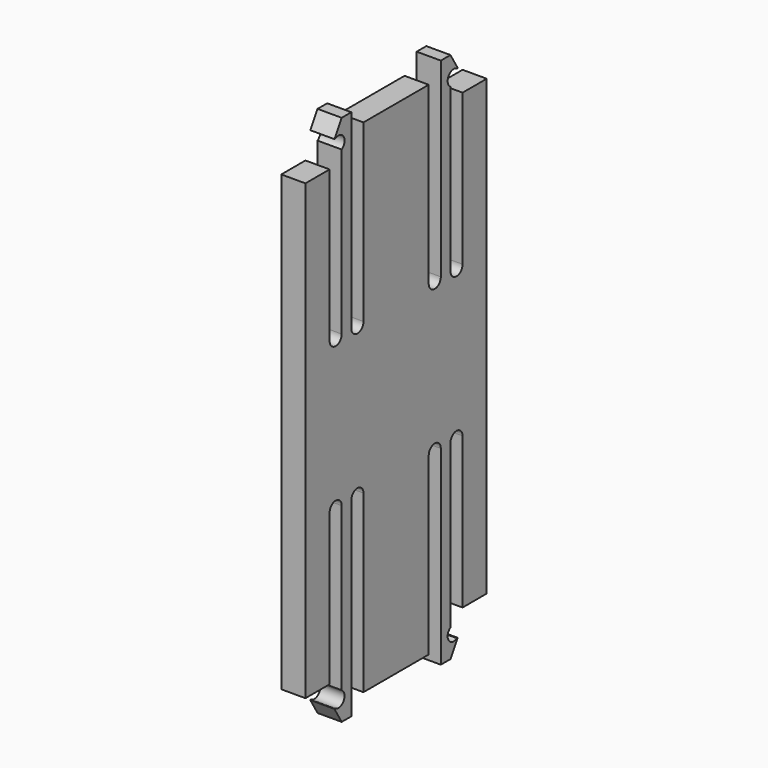
from build123d import *

# Parameters (mm, degrees)
F3_W     = 15
F3_H     = 30
F4_DEPTH = 1.6
F5_W     = 1
F5_H     = 10
F0_DEPTH = 25
F6_W     = 2.7
F6_H     = 1.6
F1_DEPTH = 1.6
F2_R     = 0.5
F7_DEPTH = 25


with BuildPart() as f4:
    # F3 (on Right) → F4 (new body)
    with BuildSketch(Plane.YZ):
        with Locations((7.5, 15)):
            Rectangle(F3_W, F3_H)
    extrude(amount=F4_DEPTH)

    # F5 (on face) → F0 (cut)
    with BuildSketch(Plane.YZ.offset(1.6)):
        with Locations((2.5, 25)):
            Rectangle(F5_W, F5_H)
        with Locations((4.3, 25)):
            Rectangle(F5_W, F5_H)
        with Locations((10.7, 25)):
            Rectangle(F5_W, F5_H)
        with Locations((12.5, 25)):
            Rectangle(F5_W, F5_H)
        with Locations((12.5, 5)):
            Rectangle(F5_W, F5_H)
        with Locations((10.7, 5)):
            Rectangle(F5_W, F5_H)
        with Locations((4.3, 5)):
            Rectangle(F5_W, F5_H)
        with Locations((2.5, 5)):
            Rectangle(F5_W, F5_H)
    extrude(amount=-F0_DEPTH, mode=Mode.SUBTRACT)

    # F6 (on face) → F1 (join)
    with BuildSketch(Plane.YZ.offset(1.6)):
        Polygon((3, 30), (3.8, 30), (3.8, 32.6), (3, 32.6), (2.4, 31.6), (3, 31.6), align=None)
        with Locations((6.15, 30.8)):
            Rectangle(F6_W, F6_H)
        with Locations((8.85, 30.8)):
            Rectangle(F6_W, F6_H)
        Polygon((12, 32.6), (11.2, 32.6), (11.2, 30), (12, 30), (12, 31.6), (12.6, 31.6), align=None)
        Polygon((2.4, -1.6), (3, -2.6), (3.8, -2.6), (3.8, 0), (3, 0), (3, -1.6), align=None)
        Polygon((4.8, 0), (4.8, -1.6), (7.5, -1.6), (10.2, -1.6), (10.2, 0), (7.5, 0), align=None)
        Polygon((12, 0), (11.2, 0), (11.2, -2.6), (12, -2.6), (12.6, -1.6), (12, -1.6), align=None)
    extrude(amount=-F1_DEPTH)

    # F2 (on face) → F7 (cut)
    with BuildSketch(Plane.YZ.offset(1.6)):
        with Locations((4.3, 20)):
            Circle(F2_R)
        with Locations((2.735001, 31.176001)):
            Circle(F2_R)
        with Locations((2.5, 20)):
            Circle(F2_R)
        with Locations((10.7, 20)):
            Circle(F2_R)
        with Locations((12.5, 20)):
            Circle(F2_R)
        with Locations((12.264999, 31.176001)):
            Circle(F2_R)
        with Locations((12.264999, -1.176001)):
            Circle(F2_R)
        with Locations((12.5, 10)):
            Circle(F2_R)
        with Locations((10.7, 10)):
            Circle(F2_R)
        with Locations((4.3, 10)):
            Circle(F2_R)
        with Locations((2.5, 10)):
            Circle(F2_R)
        with Locations((2.735001, -1.176001)):
            Circle(F2_R)
    extrude(amount=-F7_DEPTH, mode=Mode.SUBTRACT)


solid = f4.part
